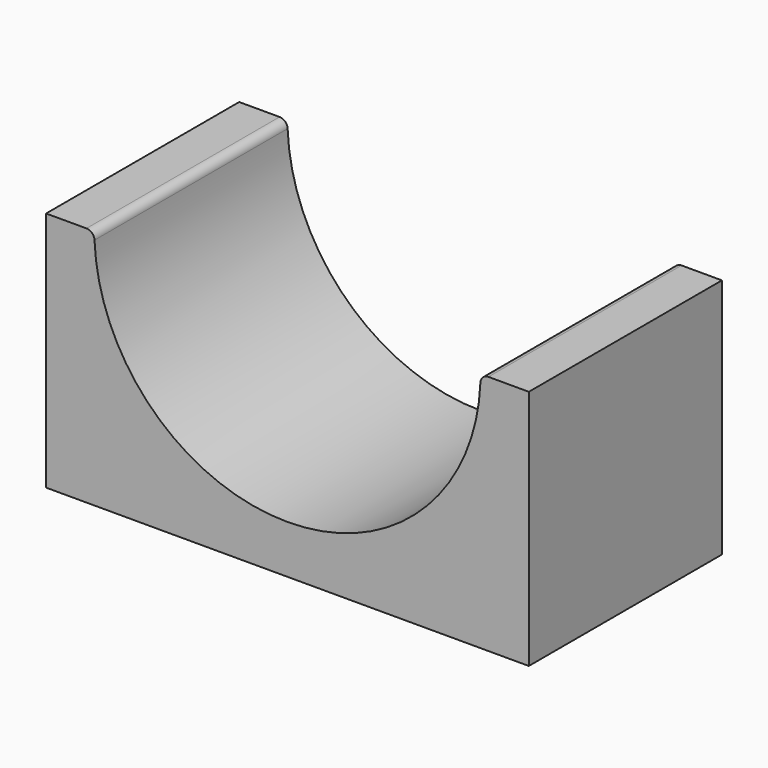
from build123d import *

# Parameters (mm, degrees)
F1_DEPTH = 150
F2_R     = 5


with BuildPart() as f1:
    # F0 (on Front) → F1 (new body)
    with BuildSketch(Plane.XZ):
        with BuildLine():
            ThreePointArc((204.376869, 0), (84.376869, -120), (-35.623131, 0))
            Line((-35.623131, 0), (-65.623131, 0))
            Line((-65.623131, 0), (-65.623131, -150))
            Line((-65.623131, -150), (234.376869, -150))
            Line((234.376869, -150), (234.376869, 0))
            Line((234.376869, 0), (204.376869, 0))
        make_face()
    extrude(amount=F1_DEPTH)

    # F2
    f2_edges = [f1.edges().sort_by_distance(p)[0] for p in [
        (-35.623131, -75, 0),
        (204.376869, -75, 0),
    ]]
    fillet(f2_edges, radius=F2_R)


solid = f1.part
